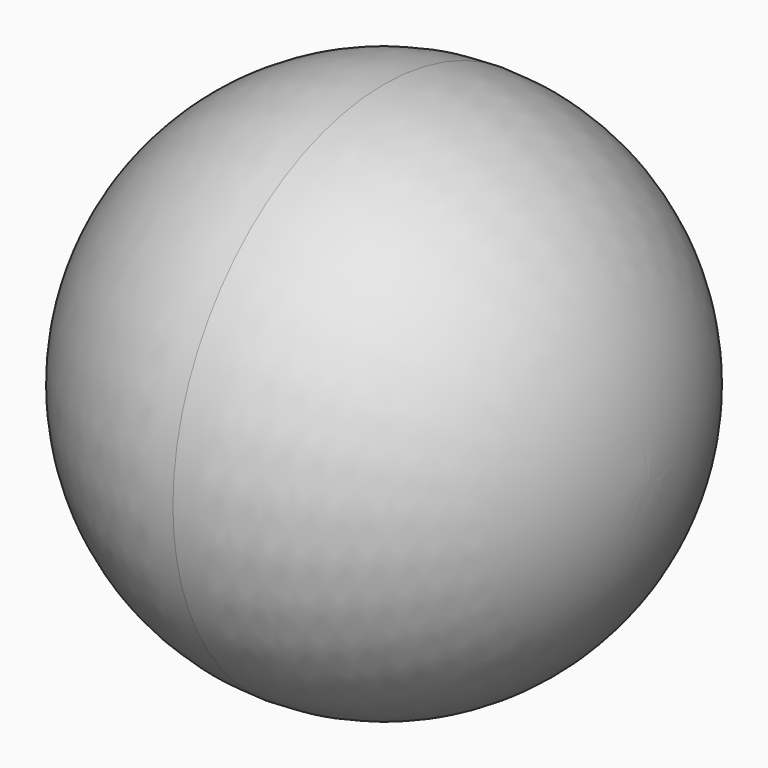
from build123d import *


with BuildPart() as f1:
    # F0 (on Front) → F1 (revolve)
    with BuildSketch(Plane.XZ):
        with BuildLine():
            Line((0, 47.625), (0, 0))
            Line((0, 0), (47.625, 0))
            ThreePointArc((47.625, 0), (33.67596, 33.67596), (0, 47.625))
        make_face()
    revolve(axis=Axis((23.8125, 0, 0), (1, 0, 0)))

    # F2: F1 across face


with BuildPart() as f1_1:
    add(f1.part)
    add(f1.part.mirror(Plane(origin=(0, 0, 0), x_dir=(0, -1, 0), z_dir=(-1, 0, 0))))


solid = f1_1.part
